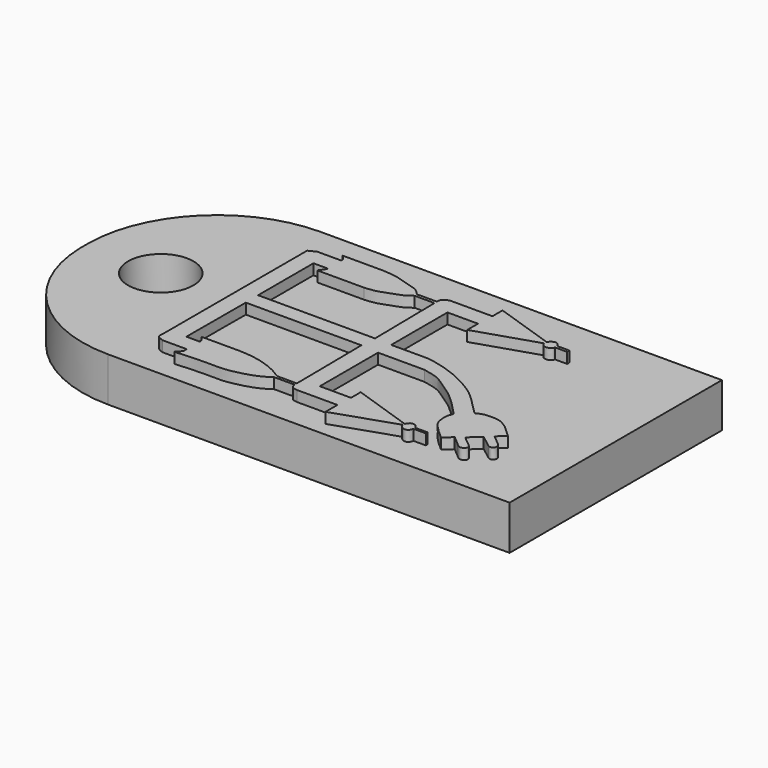
from build123d import *

# Parameters (mm, degrees)
F0_W     = 38.1
F0_H     = 19.05
F1_DEPTH = 3.175
F2_R     = 2.3454703993
F3_DEPTH = 3.176
F5_DEPTH = 0.762


with BuildPart() as f1:
    # F0 (on Top) → F1 (new body)
    with BuildSketch(Plane.XY):
        with Locations((-19.05, 9.525)):
            Rectangle(F0_W, F0_H)
    extrude(amount=F1_DEPTH)

    # F2 (on face) → F3 (cut, through all)
    with BuildSketch(Plane.XY.offset(3.175)):
        with Locations((-32.6583981514, 9.525)):
            Circle(F2_R)
        with BuildLine():
            ThreePointArc((-38.1, 9.9683756083), (-35.308362686, 16.3938160997), (-28.8257542998, 19.05))
            Line((-28.8257542998, 19.05), (-38.1, 19.05))
            Line((-38.1, 19.05), (-38.1, 9.9683756083))
        make_face()
        with BuildLine():
            ThreePointArc((-28.8257542998, 0), (-35.308362686, 2.6561839003), (-38.1, 9.0816243917))
            Line((-38.1, 9.0816243917), (-38.1, 0))
            Line((-38.1, 0), (-28.8257542998, 0))
        make_face()
    extrude(amount=-F3_DEPTH, mode=Mode.SUBTRACT)

    # F4 (on face) → F5 (join)
    with BuildSketch(Plane.XY.offset(3.175)):
        with BuildLine():
            add(Edge.make_bspline(
                [(-26.5377387404, 15.9110687673), (-26.7108747115, 15.8254740139), (-26.8840106825, 15.7398792605), (-27.0571466535, 15.654284507)],
                knots=[0, 0, 0, 0, 0.579415858, 0.579415858, 0.579415858, 0.579415858], degree=3))
            Line((-27.0571466535, 15.654284507), (-27.0571466535, 2.7385666035))
            add(Edge.make_bspline(
                [(-27.0571466535, 2.7385666035), (-27.0795693358, 2.6088543631), (-27.1225207817, 2.3603859501), (-26.8266557283, 2.183014384), (-26.6604257883, 2.1276841688), (-26.579702273, 2.1008150652)],
                knots=[0, 0, 0, 0, 0.359730405, 0.6890763936, 1, 1, 1, 1], degree=3))
            Line((-26.579702273, 2.1008150652), (-24.8697847128, 2.1008150652))
            add(Edge.make_bspline(
                [(-24.8697847128, 2.1008150652), (-24.8535585114, 1.9993606342), (-24.820613422, 1.7933712454), (-25.0545304604, 1.6052521128), (-25.323348361, 1.3860952125), (-24.5846096398, 1.4667534331), (-23.7811649583, 1.5054977354), (-22.5648546478, 1.5317740605), (-21.8525212711, 1.4849440744), (-20.7065855211, 1.6821403738), (-19.5728440966, 2.0528020227), (-19.1090591627, 2.3669456633), (-18.9018342644, 2.5073089637)],
                knots=[0, 0, 0, 0, 0.0654142898, 0.1328147962, 0.1852280569, 0.2717986293, 0.3900220534, 0.5225934237, 0.6267763583, 0.7573014589, 0.891559262, 1, 1, 1, 1], degree=3))
            Line((-18.9018342644, 2.5073089637), (-17.4452550709, 2.5073089637))
            add(Edge.make_bspline(
                [(-17.4452550709, 2.5073089637), (-17.416342407, 2.3859721487), (-17.3563210578, 2.1340825495), (-17.0722687387, 2.1058012821), (-16.9250462204, 2.0911432803)],
                knots=[0, 0, 0, 0, 0.4817063324, 1, 1, 1, 1], degree=3))
            Line((-16.9250462204, 2.0911432803), (-14.0298530459, 2.0911432803))
            Line((-14.0298530459, 2.0911432803), (-14.0298530459, 1.0200680699))
            Line((-14.0298530459, 1.0200680699), (-9.6812043339, 2.4914150126))
            add(Edge.make_bspline(
                [(-9.6812043339, 2.4914150126), (-9.6409541279, 2.4226709942), (-9.5613256349, 2.2866721227), (-9.3732923035, 2.143877022), (-9.146753539, 2.1258439034), (-8.9577295904, 2.2565656827), (-8.9125275808, 2.4112662698), (-8.8891088963, 2.4914150126)],
                knots=[0, 0, 0, 0, 0.2053847319, 0.4063203233, 0.6002825129, 0.7929105851, 1, 1, 1, 1], degree=3))
            Line((-8.8891088963, 2.4914150126), (-8.0058202147, 2.4914150126))
            Line((-8.0058202147, 2.4914150126), (-8.0058202147, 2.6511875913))
            Line((-8.0058202147, 2.6511875913), (-8.8891088963, 2.6511875913))
            add(Edge.make_bspline(
                [(-8.8891088963, 2.6511875913), (-8.9310142556, 2.7313268058), (-9.0111442626, 2.8845662941), (-9.2288589733, 2.9502078721), (-9.4263111029, 2.954461386), (-9.5681762791, 2.7983408667), (-9.6258537843, 2.6991547711), (-9.6537470818, 2.6511875913)],
                knots=[0, 0, 0, 0, 0.2243735688, 0.4290395288, 0.619806208, 0.816135277, 1, 1, 1, 1], degree=3))
            Line((-9.6537470818, 2.6511875913), (-13.9779066667, 4.1145463474))
            Line((-13.9779066667, 4.1145463474), (-13.9779066667, 3.2444412354))
            Line((-13.9779066667, 3.2444412354), (-16.2190869451, 3.2444412354))
            Line((-16.2190869451, 3.2444412354), (-16.2190869451, 8.471253328))
            Line((-16.2190869451, 8.471253328), (-12.8844231367, 8.471253328))
            add(Edge.make_bspline(
                [(-12.8844231367, 8.471253328), (-12.4868405129, 8.3912644099), (-11.73186638, 8.2393725502), (-10.9755685718, 7.6600087014), (-10.0278228964, 7.0776029449), (-9.2641156682, 6.3657609783), (-8.4323489729, 5.5191632424), (-8.2256469446, 5.2628506515), (-8.4263613819, 4.9657352945), (-8.4045845677, 4.387056325), (-8.3245215623, 3.8946895211), (-7.8349969225, 3.3357865397), (-7.3142777062, 2.8825893477), (-7.0247473195, 2.6306025684)],
                knots=[0, 0, 0, 0, 0.1119269029, 0.2125392595, 0.3204849305, 0.4302536688, 0.542538281, 0.5958954746, 0.6528186178, 0.7312491143, 0.8038353409, 0.8909284931, 1, 1, 1, 1], degree=3))
            Line((-7.0247473195, 2.6306025684), (-6.4539997838, 3.1442753971))
            Line((-6.4539997838, 3.1442753971), (-5.8452025987, 2.6306025684))
            add(Edge.make_bspline(
                [(-5.8452025987, 2.6306025684), (-5.7510163843, 2.5382953385), (-5.5793479133, 2.3700515982), (-5.3068982698, 2.3599422662), (-5.0234062685, 2.629445519), (-5.1548387797, 2.7849198566), (-5.217380356, 2.8589016292)],
                knots=[0, 0, 0, 0, 0.2794125753, 0.5092712331, 0.7664888973, 1, 1, 1, 1], degree=3))
            Line((-5.217380356, 2.8589016292), (-5.9783770703, 3.4867241047))
            Line((-5.9783770703, 3.4867241047), (-5.217380356, 4.190646112))
            Line((-5.217380356, 4.190646112), (-4.3422332965, 3.5247737542))
            add(Edge.make_bspline(
                [(-4.3422332965, 3.5247737542), (-4.2753552319, 3.4833438946), (-4.1355489457, 3.396736203), (-3.8719087651, 3.5821675688), (-3.8873582518, 3.8259382225), (-3.9635831277, 3.9291369105), (-4.0002227761, 3.9787422866)],
                knots=[0, 0, 0, 0, 0.2503847052, 0.5234205857, 0.7709185888, 1, 1, 1, 1], degree=3))
            Line((-4.0002227761, 3.9787422866), (-4.7757523134, 4.6124062501))
            Line((-4.7757523134, 4.6124062501), (-4.2272070423, 5.1231207326))
            Line((-4.2272070423, 5.1231207326), (-5.0594825298, 5.8891922235))
            add(Edge.make_bspline(
                [(-5.0594825298, 5.8891922235), (-5.2342245953, 6.0119831219), (-5.5535406301, 6.2363658579), (-5.9633037959, 6.3380845337), (-6.4624834448, 6.3629289512), (-6.9588518276, 6.326635918), (-7.2564382113, 6.1799434156), (-7.404985372, 6.1067184433)],
                knots=[0, 0, 0, 0, 0.2203014043, 0.4025691847, 0.6016033984, 0.8011310759, 1, 1, 1, 1], degree=3))
            add(Edge.make_bspline(
                [(-7.404985372, 6.1067184433), (-7.8012870357, 6.5100044394), (-8.5207565636, 7.2421975688), (-9.3143752369, 7.9809513855), (-10.4526059497, 8.667475744), (-11.8318533209, 9.304087771), (-13.1655398172, 9.6100287611), (-13.4780210852, 9.655550231), (-13.5454072432, 9.665475678)],
                knots=[0, 0, 0, 0, 0.1949094928, 0.3542547898, 0.528809926, 0.7243716486, 0.9083314981, 0.9676026394, 0.9676026394, 0.9676026394, 0.9676026394], degree=3))
            Line((-13.5454072432, 9.665475678), (-13.5536914822, 9.665475678))
            Line((-13.5536914822, 9.665475678), (-16.2297561765, 9.665475678))
            Line((-16.2297561765, 9.665475678), (-16.2297561765, 14.7121604532))
            Line((-16.2297561765, 14.7121604532), (-14.0407746658, 14.7121604532))
            Line((-14.0407746658, 14.7121604532), (-14.0407746658, 13.74643296))
            Line((-14.0407746658, 13.74643296), (-9.6628116444, 15.162833035))
            add(Edge.make_bspline(
                [(-9.6628116444, 15.162833035), (-9.5994792917, 15.0419453644), (-9.4666485777, 14.7884096682), (-8.9151551249, 14.924804863), (-8.8862007543, 15.0941198994), (-8.8744670414, 15.162833035)],
                knots=[0, 0, 0, 0, 0.3512906634, 0.7367442472, 1, 1, 1, 1], degree=3))
            Line((-8.8744670414, 15.162833035), (-8.0032702535, 15.162833035))
            Line((-8.0032702535, 15.162833035), (-8.0032702535, 15.3721110607))
            Line((-8.0032702535, 15.3721110607), (-8.8744670414, 15.3721110607))
            add(Edge.make_bspline(
                [(-8.8744670414, 15.3721110607), (-8.9258811293, 15.4535897314), (-9.0257330431, 15.6112970859), (-9.2823856435, 15.7082360182), (-9.5546444314, 15.5282819888), (-9.6134472425, 15.4120218853), (-9.6300745245, 15.3725532584)],
                knots=[0, 0, 0, 0, 0.2589067963, 0.4997338796, 0.7803818448, 0.9274568815, 0.9274568815, 0.9274568815, 0.9274568815], degree=3))
            Line((-9.6300745245, 15.3725532584), (-13.9726913457, 16.8323148205))
            Line((-13.9726913457, 16.8323148205), (-13.9726913457, 15.9259032621))
            Line((-13.9726913457, 15.9259032621), (-17.0669947674, 15.9259032621))
            add(Edge.make_bspline(
                [(-17.0669947674, 15.9259032621), (-17.2379265625, 15.8260077216), (-17.5305453526, 15.6574083814), (-17.5131075408, 15.4495405967), (-17.506107688, 15.3641048819)],
                knots=[0, 0, 0, 0, 0.5880208056, 1, 1, 1, 1], degree=3))
            Line((-17.506107688, 15.3641048819), (-18.9438629895, 15.3641048819))
            add(Edge.make_bspline(
                [(-18.9438629895, 15.3641048819), (-19.0730076064, 15.5122124042), (-19.3699914184, 15.8528037322), (-20.4455895706, 16.0592715534), (-21.1153456714, 16.3460981975), (-21.8142141514, 16.3983614206), (-22.1944451332, 16.4267960936)],
                knots=[0, 0, 0, 0, 0.212159, 0.4878855201, 0.7213756277, 1, 1, 1, 1], degree=3))
            Line((-22.1944451332, 16.4267960936), (-25.1324698329, 16.4267960936))
            add(Edge.make_bspline(
                [(-25.1324698329, 16.4267960936), (-25.0155507598, 16.3238609839), (-24.815014757, 16.1473098455), (-24.822982641, 15.9805868028), (-24.8263049871, 15.9110687673)],
                knots=[0, 0, 0, 0, 0.583032829, 1, 1, 1, 1], degree=3))
            Line((-24.8263049871, 15.9110687673), (-26.5377387404, 15.9110687673))
        make_face()
        with BuildLine():
            Line((-25.8164200932, 3.2712235115), (-25.8011277765, 8.5837785155))
            Line((-25.8011277765, 8.5837785155), (-17.506107688, 8.5837785155))
            Line((-17.506107688, 8.5837785155), (-17.4452550709, 3.1483727507))
            Line((-17.4452550709, 3.1483727507), (-17.4452550709, 2.7118595317))
            Line((-17.4452550709, 2.7118595317), (-18.8643243164, 2.7118595317))
            add(Edge.make_bspline(
                [(-18.8643243164, 2.7118595317), (-19.0815269134, 2.85521998), (-19.5524918726, 3.166071455), (-20.5984014649, 3.5593135264), (-21.5481955341, 3.753304769), (-22.1358927762, 3.7784602355), (-22.4202815443, 3.7906330545)],
                knots=[0, 0, 0, 0, 0.2329927864, 0.5052031588, 0.7605660635, 1, 1, 1, 1], degree=3))
            Line((-22.4202815443, 3.7906330545), (-25.1571703702, 3.7906330545))
            add(Edge.make_bspline(
                [(-25.1571703702, 3.7906330545), (-25.0642022591, 3.6982952356), (-24.8942335308, 3.5294788374), (-24.855211218, 3.3517428953), (-24.837533012, 3.2712235115)],
                knots=[0, 0, 0, 0, 0.5469718577, 1, 1, 1, 1], degree=3))
            Line((-24.837533012, 3.2712235115), (-25.8164200932, 3.2712235115))
        make_face(mode=Mode.SUBTRACT)
        with BuildLine():
            Line((-18.9293026924, 15.1415970176), (-17.506107688, 15.1415970176))
            Line((-17.506107688, 15.1415970176), (-17.428284511, 9.7119892016))
            Line((-17.428284511, 9.7119892016), (-25.822866708, 9.7119892016))
            Line((-25.822866708, 9.7119892016), (-25.822866708, 14.6800291177))
            Line((-25.822866708, 14.6800291177), (-24.7983376545, 14.6800291177))
            add(Edge.make_bspline(
                [(-25.1186843961, 14.1409179196), (-25.0576893253, 14.2285084067), (-24.9435954911, 14.3923500806), (-24.7955780658, 14.5766326071), (-24.7956461395, 14.6560214032), (-24.7983376545, 14.6800291177)],
                knots=[0, 0, 0, 0, 0.4063243511, 0.7600467132, 0.9204385352, 0.9204385352, 0.9204385352, 0.9204385352], degree=3))
            Line((-25.1186843961, 14.1409179196), (-21.7460282147, 14.1409179196))
            add(Edge.make_bspline(
                [(-18.9293026924, 15.1415970176), (-19.0907602148, 15.0203952413), (-19.4210171313, 14.772480345), (-20.0535811337, 14.5777947582), (-20.8713014134, 14.222314871), (-21.4546989083, 14.168027318), (-21.7460282147, 14.1409179196)],
                knots=[0, 0, 0, 0, 0.2237759252, 0.4577274938, 0.7292071452, 1, 1, 1, 1], degree=3))
        make_face(mode=Mode.SUBTRACT)
    extrude(amount=F5_DEPTH)


solid = f1.part
